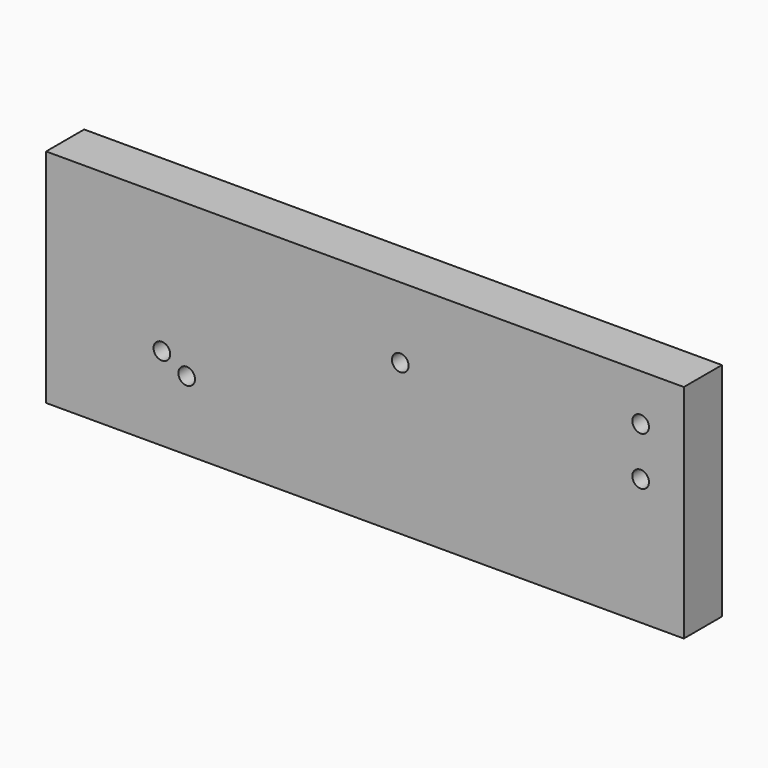
from build123d import *

# Parameters (mm, degrees)
F0_W     = 340.260222
F0_H     = 118.142966
F1_DEPTH = 25.4
F3_D     = 8.89


with BuildPart() as f1:
    # F0 (on Front) → F1 (new body)
    with BuildSketch(Plane.XZ):
        with Locations((72.485842, -8.323697)):
            Rectangle(F0_W, F0_H)
    extrude(amount=F1_DEPTH)

    # F3 (through all)
    with Locations(Plane.XZ.offset(25.4)):
        with Locations((-35.855036, -22.971231), (-22.64105, -30.404873), (219.574808, 0), (219.574808, 25.885126), (91.329578, 12.942563)):
            Hole(F3_D / 2)


solid = f1.part
